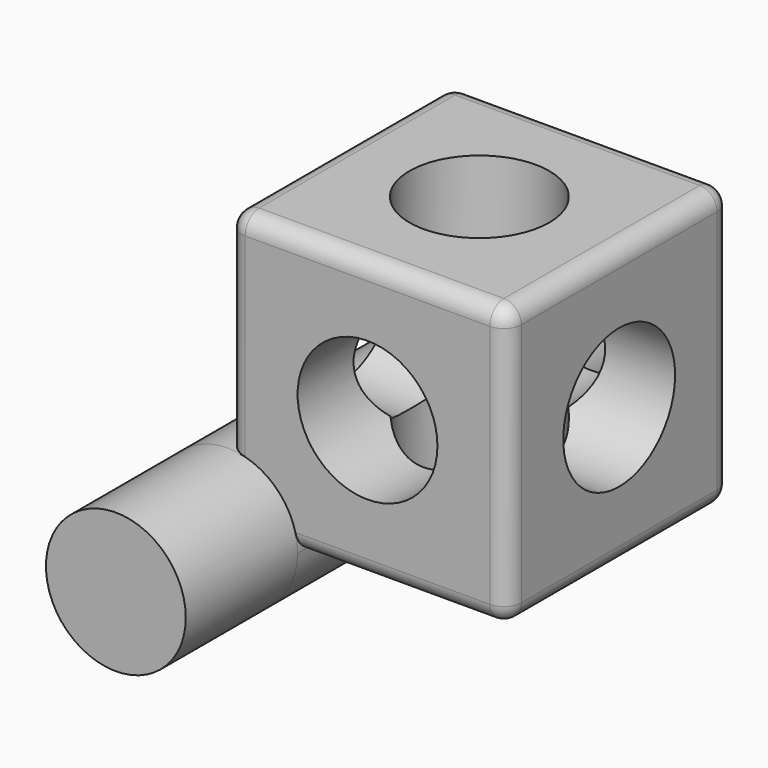
from build123d import *

# Parameters (mm, degrees)
F0_W           = 101.6
F0_H           = 101.6
F1_DEPTH       = 101.6
F2_R           = 25.4
F3_DEPTH       = 101.6
F4_R           = 25.4
F5_DEPTH       = 101.6
F6_R           = 25.4
F7_DEPTH       = 101.6
F8_R           = 6.35
F10_R          = 25.4
F11_DEPTH      = 50.8
F11_DEPTH_BACK = 152.4


with BuildPart() as f1:
    # F0 (on Front) → F1 (new body)
    with BuildSketch(Plane.XZ):
        with Locations((50.8, 50.8)):
            Rectangle(F0_W, F0_H)
    extrude(amount=F1_DEPTH)

    # F2 (on face) → F3 (cut)
    with BuildSketch(Plane.XZ.offset(101.6)):
        with Locations((50.8, 50.8)):
            Circle(F2_R)
    extrude(amount=-F3_DEPTH, mode=Mode.SUBTRACT)

    # F4 (on face) → F5 (cut)
    with BuildSketch(Plane.XY.offset(101.6)):
        with Locations((50.8, -50.8)):
            Circle(F4_R)
    extrude(amount=-F5_DEPTH, mode=Mode.SUBTRACT)

    # F6 (on face) → F7 (cut)
    with BuildSketch(Plane.YZ.offset(101.6)):
        with Locations((-50.8, 50.8)):
            Circle(F6_R)
    extrude(amount=-F7_DEPTH, mode=Mode.SUBTRACT)

    # F8
    f8_edges = [f1.edges().sort_by_distance(p)[0] for p in [
        (50.8, -101.6, 101.6),
        (101.6, -50.8, 101.6),
        (101.6, -101.6, 50.8),
        (101.6, -50.8, 0),
        (50.8, -101.6, 0),
        (50.8, 0, 101.6),
        (0, -50.8, 101.6),
        (0, -101.6, 50.8),
        (101.6, 0, 50.8),
        (0, -50.8, 0),
        (0, 0, 50.8),
        (50.8, 0, 0),
    ]]
    fillet(f8_edges, radius=F8_R)

    # F10 (on offset) → F11 (join, two sides)
    with BuildSketch(Plane.XZ.offset(101.6)) as f11_sk:
        Circle(F10_R)
    extrude(amount=F11_DEPTH)
    extrude(f11_sk.sketch, amount=-F11_DEPTH_BACK)


solid = f1.part
